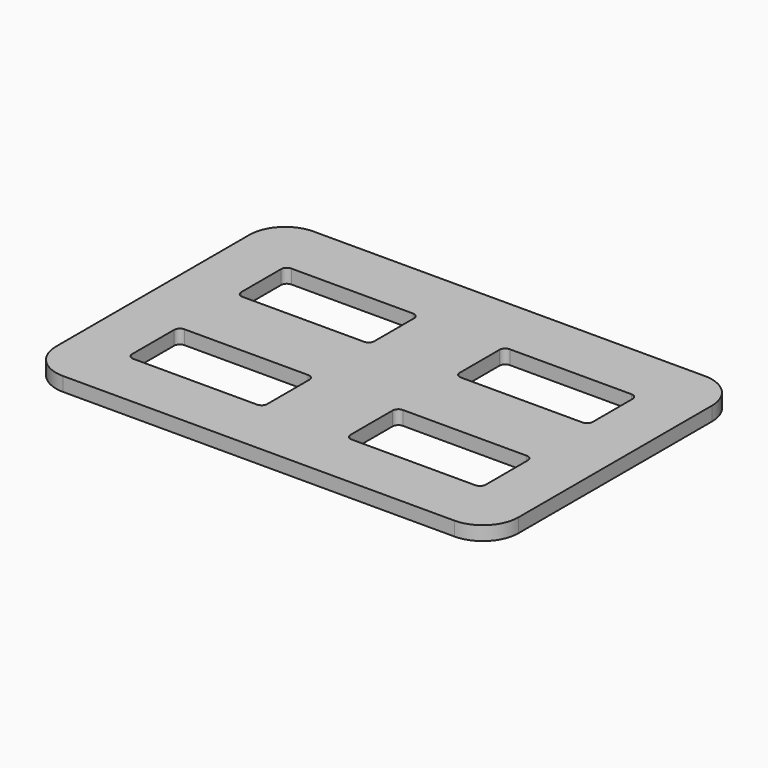
from build123d import *

# Parameters (mm, degrees)
F1_DEPTH = 5


with BuildPart() as f1:
    # F0 (on Top) → F1 (new body)
    with BuildSketch(Plane.XY):
        with BuildLine():
            ThreePointArc((0, 12.7), (3.719744, 3.719744), (12.7, 0))
            Line((12.7, 0), (152.4, 0))
            ThreePointArc((152.4, 0), (161.380256, 3.719744), (165.1, 12.7))
            Line((165.1, 12.7), (165.1, 99.06))
            ThreePointArc((165.1, 99.06), (161.380256, 108.040256), (152.4, 111.76))
            Line((152.4, 111.76), (12.7, 111.76))
            ThreePointArc((12.7, 111.76), (3.719744, 108.040256), (0, 99.06))
            Line((0, 99.06), (0, 12.7))
        make_face()
        with BuildLine():
            ThreePointArc((19.431, 41.148), (20.026159, 42.584841), (21.463, 43.18))
            Line((21.463, 43.18), (65.659, 43.18))
            ThreePointArc((65.659, 43.18), (67.095841, 42.584841), (67.691, 41.148))
            Line((67.691, 41.148), (67.691, 22.352))
            ThreePointArc((67.691, 22.352), (67.095841, 20.915159), (65.659, 20.32))
            Line((65.659, 20.32), (21.463, 20.32))
            ThreePointArc((21.463, 20.32), (20.026159, 20.915159), (19.431, 22.352))
            Line((19.431, 22.352), (19.431, 41.148))
        make_face(mode=Mode.SUBTRACT)
        with BuildLine():
            ThreePointArc((145.669, 22.352), (145.073841, 20.915159), (143.637, 20.32))
            Line((143.637, 20.32), (99.441, 20.32))
            ThreePointArc((99.441, 20.32), (98.004159, 20.915159), (97.409, 22.352))
            Line((97.409, 22.352), (97.409, 41.148))
            ThreePointArc((97.409, 41.148), (98.004159, 42.584841), (99.441, 43.18))
            Line((99.441, 43.18), (143.637, 43.18))
            ThreePointArc((143.637, 43.18), (145.073841, 42.584841), (145.669, 41.148))
            Line((145.669, 41.148), (145.669, 22.352))
        make_face(mode=Mode.SUBTRACT)
        with BuildLine():
            ThreePointArc((19.812, 88.392), (20.407159, 89.828841), (21.844, 90.424))
            Line((21.844, 90.424), (65.278, 90.424))
            ThreePointArc((65.278, 90.424), (66.714841, 89.828841), (67.31, 88.392))
            Line((67.31, 88.392), (67.31, 70.612))
            ThreePointArc((67.31, 70.612), (66.714841, 69.175159), (65.278, 68.58))
            Line((65.278, 68.58), (21.844, 68.58))
            ThreePointArc((21.844, 68.58), (20.407159, 69.175159), (19.812, 70.612))
            Line((19.812, 70.612), (19.812, 88.392))
        make_face(mode=Mode.SUBTRACT)
        with BuildLine():
            Line((97.79, 70.612), (97.79, 88.392))
            ThreePointArc((97.79, 88.392), (98.385159, 89.828841), (99.822, 90.424))
            Line((99.822, 90.424), (143.256, 90.424))
            ThreePointArc((143.256, 90.424), (144.692841, 89.828841), (145.288, 88.392))
            Line((145.288, 88.392), (145.288, 70.612))
            ThreePointArc((145.288, 70.612), (144.692841, 69.175159), (143.256, 68.58))
            Line((143.256, 68.58), (99.822, 68.58))
            ThreePointArc((99.822, 68.58), (98.385159, 69.175159), (97.79, 70.612))
        make_face(mode=Mode.SUBTRACT)
    extrude(amount=F1_DEPTH)


solid = f1.part
